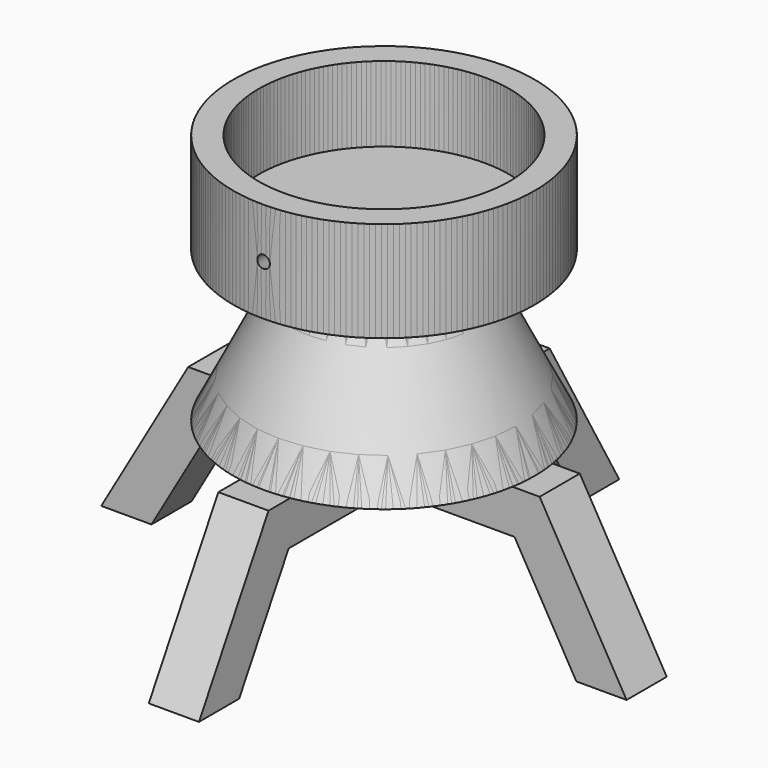
from build123d import *

# Parameters (mm, degrees)
F0_R      = 152.4
F2_R      = 76.2
F5_W      = 152.4
F5_H      = 101.6
F7_R      = 127
F8_DEPTH  = 76.2
F10_DEPTH = 25.4
F11_COUNT = 4
F14_DEPTH = 50.8


with BuildPart() as f3:
    # F0 (on Top) → F3 section 0
    with BuildSketch(Plane.XY):
        Circle(F0_R)
    # F2 (on offset) → F3 section 1
    with BuildSketch(Plane.XY.offset(152.4)):
        Circle(F2_R)
    loft()

    # F5 (on Right) → F6 (revolve)
    with BuildSketch(Plane.YZ):
        with Locations((-76.2, 203.2)):
            Rectangle(F5_W, F5_H)
    revolve(axis=Axis((0, 0, 203.2), (0, 0, 1)))

    # F7 (on face) → F8 (cut)
    with BuildSketch(Plane.XY.offset(254)):
        Circle(F7_R)
    extrude(amount=-F8_DEPTH, mode=Mode.SUBTRACT)

    # F9 (on Front) → F10 (join, symmetric)
    with BuildSketch(Plane.XZ):
        Polygon((177.8, 0), (25.4, 0), (50.8, -43.9940905122), (152.4, -43.9940905122), (214.9881810245, -152.4), (265.7881810245, -152.4), align=None)
    extrude(amount=F10_DEPTH, both=True)


with BuildPart() as f11_1:
    # F11: instance of F3
    add(f3.part.rotate(Axis((0, 0, 0), (0, 0, 1)), 1 * 360 / F11_COUNT))


with BuildPart() as f11_2:
    # F11: instance of F3
    add(f3.part.rotate(Axis((0, 0, 0), (0, 0, 1)), 2 * 360 / F11_COUNT))


with BuildPart() as f11_3:
    # F11: instance of F3
    add(f3.part.rotate(Axis((0, 0, 0), (0, 0, 1)), 3 * 360 / F11_COUNT))


with BuildPart() as f14_tool:
    # F13 (on offset) → F14 (new body)
    with BuildSketch(Plane.XZ.offset(152.4)):
        with BuildLine():
            ThreePointArc((0, 196.85), (4.4901280605, 198.7098719395), (6.35, 203.2))
            ThreePointArc((6.35, 203.2), (-4.4901280605, 207.6901280605), (0, 196.85))
        make_face()
    extrude(amount=-F14_DEPTH)


with BuildPart() as f3_1:
    add(f3.part)

    # F14: cut by f14_tool
    add(f14_tool.part, mode=Mode.SUBTRACT)


with BuildPart() as f11_1_1:
    add(f11_1.part)

    # F14: cut by f14_tool
    add(f14_tool.part, mode=Mode.SUBTRACT)


with BuildPart() as f11_2_1:
    add(f11_2.part)

    # F14: cut by f14_tool
    add(f14_tool.part, mode=Mode.SUBTRACT)


with BuildPart() as f11_3_1:
    add(f11_3.part)

    # F14: cut by f14_tool
    add(f14_tool.part, mode=Mode.SUBTRACT)


solid = Compound([f3_1.part, f11_1_1.part, f11_2_1.part, f11_3_1.part])
